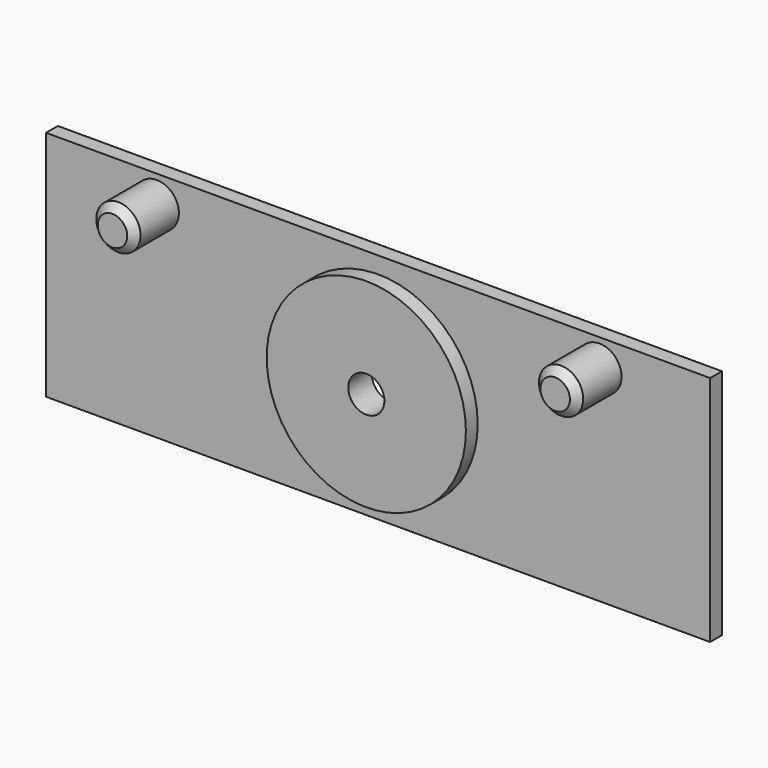
from build123d import *

# Parameters (mm, degrees)
F0_W     = 180
F0_H     = 63
F1_DEPTH = 4
F2_R     = 27
F3_DEPTH = 4
F2_R_2   = 6
F4_DEPTH = 15
F5_SIZE  = 2
F6_R     = 4.9
F7_DEPTH = 25


with BuildPart() as f1:
    # F0 (on Front) → F1 (new body)
    with BuildSketch(Plane.XZ):
        with Locations((90, -31.5)):
            Rectangle(F0_W, F0_H)
    extrude(amount=F1_DEPTH)

    # F2 (on face) → F3 (join)
    with BuildSketch(Plane.XZ.offset(4)):
        with Locations((90, -31.5)):
            Circle(F2_R)
    extrude(amount=F3_DEPTH)

    # F2 (on face) → F4 (join)
    with BuildSketch(Plane.XZ.offset(4)):
        with Locations((30, -7.5)):
            Circle(F2_R_2)
        with Locations((150, -7.5)):
            Circle(F2_R_2)
    extrude(amount=F4_DEPTH)

    # F5
    f5_edges = [f1.edges().sort_by_distance(p)[0] for p in [
        (24, -19, -7.5),
        (144, -19, -7.5),
    ]]
    chamfer(f5_edges, length=F5_SIZE)

    # F6 (on face) → F7 (cut)
    with BuildSketch(Plane.XZ.offset(8)):
        with Locations((90, -31.5)):
            Circle(F6_R)
    extrude(amount=-F7_DEPTH, mode=Mode.SUBTRACT)


solid = f1.part
